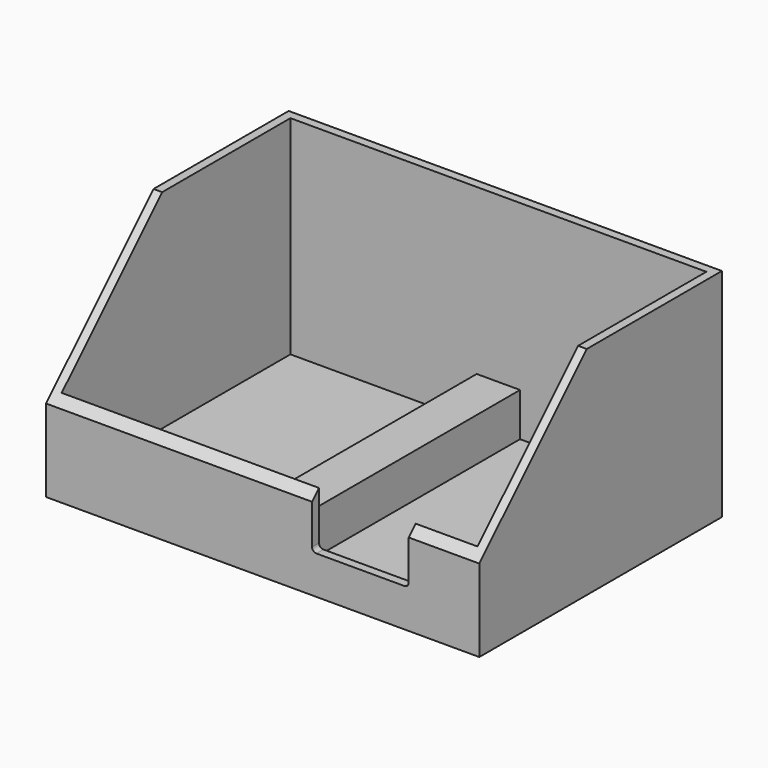
from build123d import *

# Parameters (mm, degrees)
SKETCH_W     = 100
SKETCH_H     = 70
PAD_DEPTH    = 50
CHAMFER_SIZE = 31
THICKNESS_T  = -2
SKETCH001_W  = 10
SKETCH001_H  = 66
PAD001_DEPTH = 10
SKETCH002_W  = 22.304644
SKETCH002_H  = 12.181445
POCKET_DEPTH = 11
FILLET_R     = 1


with BuildPart() as part:
    # Sketch → Pad (new body)
    with BuildSketch(Plane.XY):
        Rectangle(SKETCH_W, SKETCH_H)
    extrude(amount=PAD_DEPTH)

    # Chamfer
    chamfer_edges = [part.edges().sort_by_distance(p)[0] for p in [
        (0, -35, 50),
    ]]
    chamfer(chamfer_edges, length=CHAMFER_SIZE)

    # Thickness
    thickness_openings = [part.faces().sort_by_distance(p)[0] for p in [
        (0, 15.5, 50),
        (0, -19.5, 34.5),
    ]]
    offset(amount=THICKNESS_T, openings=thickness_openings)

    # Sketch001 (on Face12 of Thickness) → Pad001 (join)
    with BuildSketch(Plane.XY.offset(2)):
        Rectangle(SKETCH001_W, SKETCH001_H)
    extrude(amount=PAD001_DEPTH)

    # Sketch002 (on Face1 of Pad001) → Pocket (cut)
    with BuildSketch(Plane.XZ.offset(35)):
        with Locations((22.553599, 14.909277)):
            Rectangle(SKETCH002_W, SKETCH002_H)
    extrude(amount=-POCKET_DEPTH, mode=Mode.SUBTRACT)

    # Fillet
    fillet_edges = [part.edges().sort_by_distance(p)[0] for p in [
        (33.705921, -34, 8.818555),
        (11.401277, -34, 8.818555),
    ]]
    fillet(fillet_edges, radius=FILLET_R)


solid = part.part
